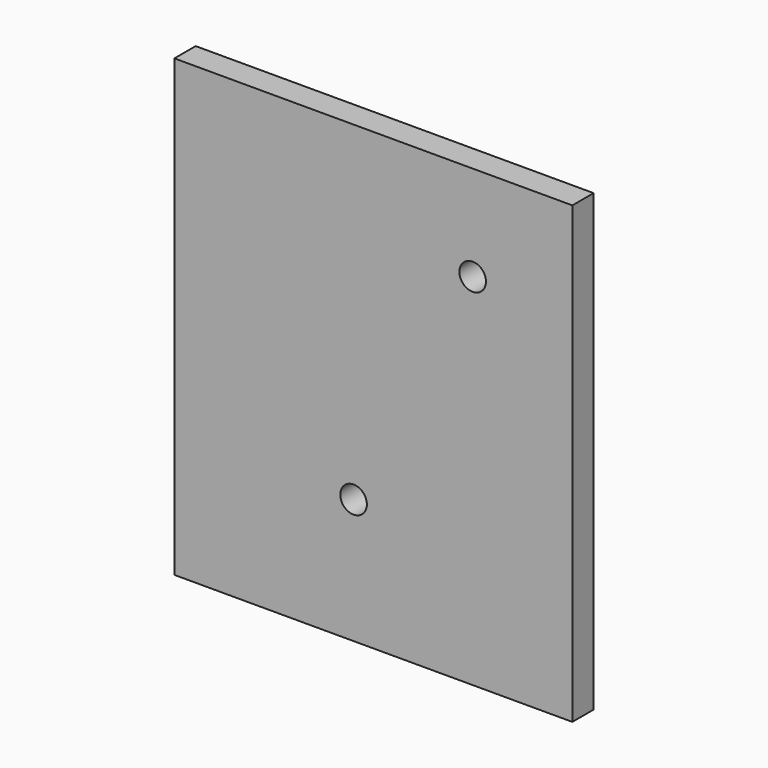
from build123d import *

# Parameters (mm, degrees)
F0_R     = 1.5875
F1_DEPTH = 3.175


with BuildPart() as f1:
    # F0 (on Front) → F1 (new body)
    with BuildSketch(Plane.XZ):
        with BuildLine():
            ThreePointArc((56.832502, 10.795001), (53.780715, 21.595422), (45.527925, 29.201602))
            ThreePointArc((45.527925, 29.201602), (19.370967, 22.747333), (21.886096, -4.076502))
            Line((21.886096, -4.076502), (50.503909, -4.076502))
            ThreePointArc((50.503909, -4.076502), (55.184558, 2.713963), (56.832502, 10.795001))
        make_face()
        with Locations((36.195002, 10.795001)):
            Circle(F0_R, mode=Mode.SUBTRACT)
        with BuildLine():
            ThreePointArc((21.886096, -4.076502), (19.370967, 22.747333), (45.527925, 29.201602))
            ThreePointArc((45.527925, 29.201602), (53.780715, 21.595422), (56.832502, 10.795001))
            ThreePointArc((56.832502, 10.795001), (55.184558, 2.713963), (50.503909, -4.076502))
            Line((50.503909, -4.076502), (62.305046, -4.076502))
            Line((62.305046, -4.076502), (62.305046, 50.195314))
            Line((62.305046, 50.195314), (14.807046, 50.195314))
            Line((14.807046, 50.195314), (14.807046, -4.076502))
            Line((14.807046, -4.076502), (21.886096, -4.076502))
        make_face()
        with BuildLine():
            ThreePointArc((45.527925, 29.201602), (44.760311, 48.028351), (61.204762, 38.82967))
            ThreePointArc((61.204762, 38.82967), (56.059213, 29.630989), (45.527925, 29.201602))
        make_face(mode=Mode.SUBTRACT)
        with BuildLine():
            ThreePointArc((45.527925, 29.201602), (56.059213, 29.630989), (61.204762, 38.82967))
            ThreePointArc((61.204762, 38.82967), (44.760311, 48.028351), (45.527925, 29.201602))
        make_face()
        with Locations((50.409762, 38.82967)):
            Circle(F0_R, mode=Mode.SUBTRACT)
    extrude(amount=F1_DEPTH)


solid = f1.part
